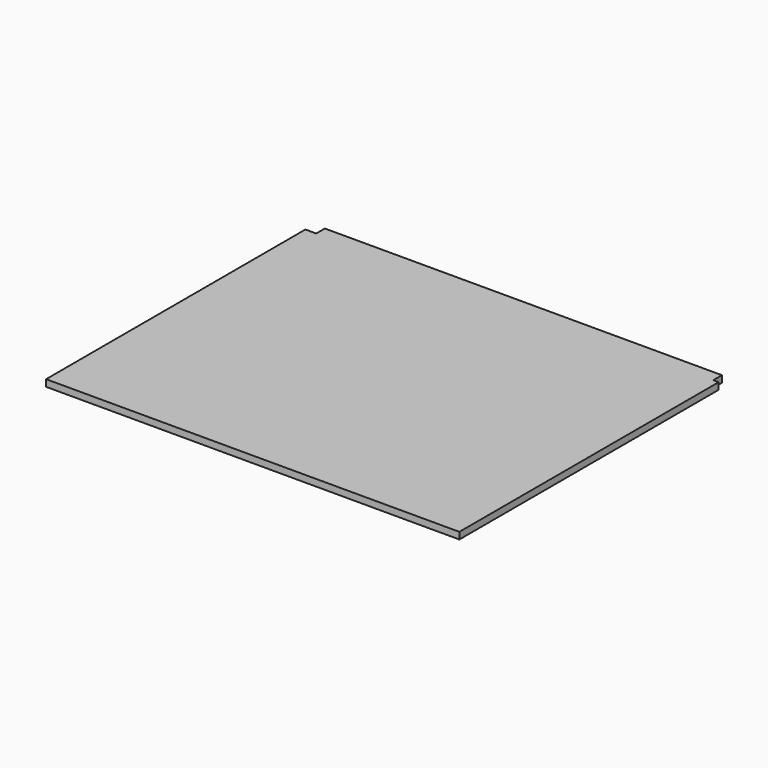
from build123d import *

# Parameters (mm, degrees)
F0_W     = 40
F0_H     = 40
F0_W_2   = 20
F1_DEPTH = 25


with BuildPart() as f1:
    # F0 (on Top) → F1 (new body)
    with BuildSketch(Plane.XY):
        Polygon((745, 580), (745, 620), (-725, 620), (-725, 580), (-765, 580), (-765, -580), (-725, -580), (-725, -620), (745, -620), (745, -580), (765, -580), (765, 580), align=None)
        with Locations((-745, -600)):
            Rectangle(F0_W, F0_H)
        with Locations((755, -600)):
            Rectangle(F0_W_2, F0_H)
    extrude(amount=F1_DEPTH)


solid = f1.part
